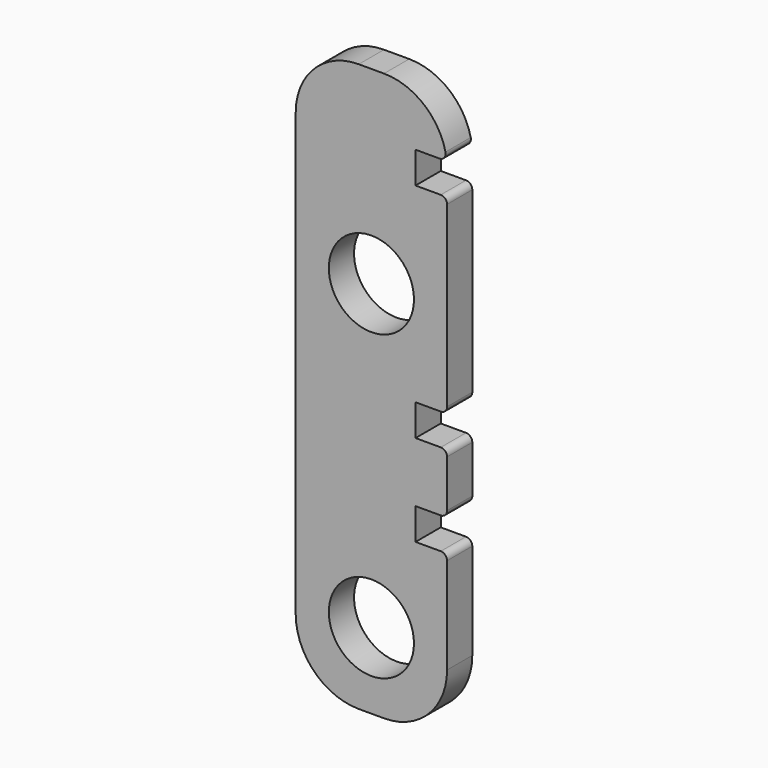
from build123d import *

# Parameters (mm, degrees)
F2_W     = 24
F2_H     = 90
F2_R     = 6.75
F3_DEPTH = 5
F4_R     = 10
F5_W     = 5
F5_H     = 5
F6_DEPTH = 25
F7_R     = 1


with BuildPart() as f3:
    # F2 (on Front) → F3 (new body)
    with BuildSketch(Plane.XZ):
        with Locations((12, 45)):
            Rectangle(F2_W, F2_H)
        with Locations((12, 12)):
            Circle(F2_R, mode=Mode.SUBTRACT)
        with Locations((12, 60)):
            Circle(F2_R, mode=Mode.SUBTRACT)
    extrude(amount=F3_DEPTH)

    # F4
    f4_edges = [f3.edges().sort_by_distance(p)[0] for p in [
        (0, -2.5, 90),
        (0, -2.5, 0),
        (24, -2.5, 90),
        (24, -2.5, 0),
    ]]
    fillet(f4_edges, radius=F4_R)

    # F5 (on face) → F6 (cut)
    with BuildSketch(Plane.XZ.offset(5)):
        with BuildLine():
            Line((19, 81), (19, 76))
            Line((19, 76), (24, 76))
            Line((24, 76), (24, 80))
            ThreePointArc((24, 80), (23.9874607311, 80.5006277506), (23.9498743711, 81))
            Line((23.9498743711, 81), (19, 81))
        make_face()
        with Locations((21.5, 43.25)):
            Rectangle(F5_W, F5_H)
        with Locations((21.5, 28.75)):
            Rectangle(F5_W, F5_H)
    extrude(amount=-F6_DEPTH, mode=Mode.SUBTRACT)

    # F7
    f7_edges = [f3.edges().sort_by_distance(p)[0] for p in [
        (24, -2.5, 26.25),
        (24, -2.5, 31.25),
        (24, -2.5, 40.75),
        (24, -2.5, 45.75),
        (24, -2.5, 76),
        (23.949874, -2.5, 81),
    ]]
    fillet(f7_edges, radius=F7_R)


solid = f3.part
